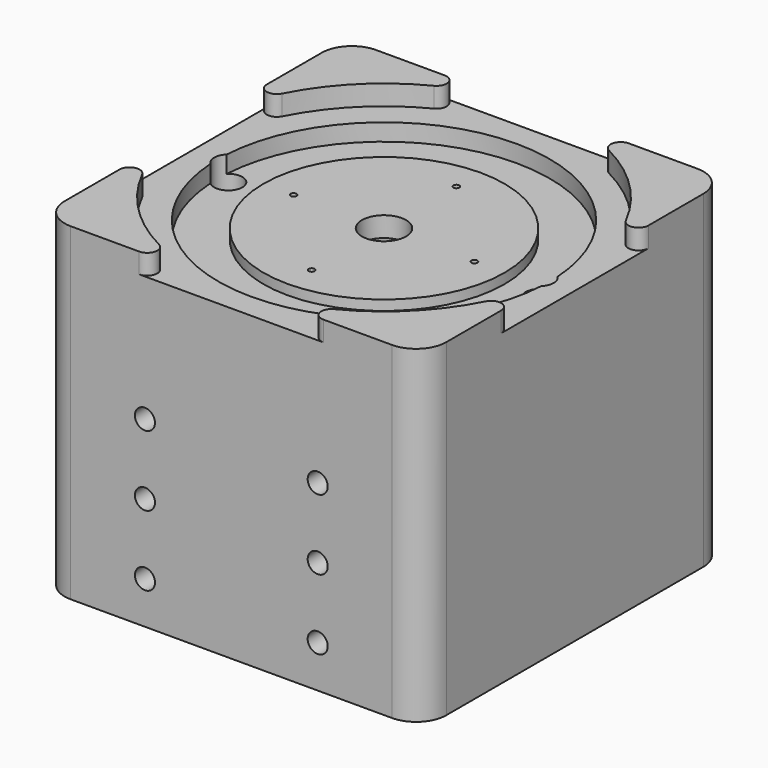
from build123d import *

# Parameters (mm, degrees)
SKETCH_W             = 190
SKETCH_H             = 190
PAD_DEPTH            = 165
SKETCH001_R          = 82.5
POCKET_DEPTH         = 20
SKETCH002_R          = 60
PAD001_DEPTH         = 5
FILLET_R             = 15
SKETCH003_W          = 100
SKETCH003_H          = 30
POCKET001_DEPTH      = 160
SKETCH004_W          = 120
SKETCH004_H          = 135
POCKET002_DEPTH      = 50
SKETCH005_R          = 1.5
POCKET003_DEPTH      = 10
SKETCH006_R          = 4
POCKET004_DEPTH      = 5
SKETCH007_R          = 11
POCKET005_DEPTH      = 10
SKETCH008_W          = 140
SKETCH008_H          = 135
POCKET006_DEPTH      = 5
SKETCH009_W          = 30
SKETCH009_H          = 135
POCKET007_DEPTH      = 10
SKETCH010_W          = 30
SKETCH010_H          = 135
POCKET008_DEPTH      = 10
SKETCH011_W          = 304.305817
SKETCH011_H          = 239.475426
POCKET009_DEPTH      = 1.5
SKETCH012_R          = 96
SKETCH012_R_2        = 75
POCKET010_DEPTH      = 10
FILLET001_R          = 5
SKETCH013_R          = 2
POCKET011_DEPTH      = 10
SKETCH014_W          = 5.1
SKETCH014_H          = 9.5
POCKET012_DEPTH      = 10
SKETCH015_R          = 2
POCKET013_DEPTH      = 30.001
SKETCH016_R          = 5
POCKET014_DEPTH      = 20
SKETCH017_W          = 120
SKETCH017_H          = 30
POCKET015_DEPTH      = 110
SKETCH018_R          = 1.5
POCKET016_DEPTH      = 20
POCKET016_DEPTH_BACK = -90
SKETCH019_R          = 2
POCKET017_DEPTH      = 153.501
SKETCH020_R          = 7
POCKET018_DEPTH      = 75
SKETCH021_R          = 7
POCKET019_DEPTH      = 65
SKETCH022_W          = 10
SKETCH022_H          = 30
POCKET020_DEPTH      = 110
SKETCH023_W          = 5.1
SKETCH023_H          = 9.5
POCKET021_DEPTH      = 10
SKETCH024_R          = 1.75
POCKET022_DEPTH      = 92


with BuildPart() as part:
    # Sketch → Pad (new body)
    with BuildSketch(Plane.XY):
        Rectangle(SKETCH_W, SKETCH_H)
    extrude(amount=PAD_DEPTH)

    # Sketch001 (on Face6 of Pad) → Pocket (cut)
    with BuildSketch(Plane.XY.offset(165)):
        Circle(SKETCH001_R)
    extrude(amount=-POCKET_DEPTH, mode=Mode.SUBTRACT)

    # Sketch002 (on Face8 of Pocket) → Pad001 (join)
    with BuildSketch(Plane.XY.offset(145)):
        Circle(SKETCH002_R)
    extrude(amount=PAD001_DEPTH)

    # Fillet
    fillet_edges = [part.edges().sort_by_distance(p)[0] for p in [
        (95, -95, 82.5),
        (-95, -95, 82.5),
        (95, 95, 82.5),
        (-95, 95, 82.5),
    ]]
    fillet(fillet_edges, radius=FILLET_R)

    # Sketch003 (on Face6 of Fillet) → Pocket001 (cut)
    with BuildSketch(Plane(origin=(0, 95, 0), x_dir=(-1, 0, 0), z_dir=(0, 1, 0))):
        with Locations((0, 20)):
            Rectangle(SKETCH003_W, SKETCH003_H)
        with Locations((0, 55)):
            Rectangle(SKETCH003_W, SKETCH003_H)
        with Locations((0, 90)):
            Rectangle(SKETCH003_W, SKETCH003_H)
        with Locations((0, 125)):
            Rectangle(SKETCH003_W, SKETCH003_H)
    extrude(amount=-POCKET001_DEPTH, mode=Mode.SUBTRACT)

    # Sketch004 (on Face6 of Pocket001) → Pocket002 (cut)
    with BuildSketch(Plane(origin=(0, 95, 0), x_dir=(-1, 0, 0), z_dir=(0, 1, 0))):
        with Locations((0, 72.5)):
            Rectangle(SKETCH004_W, SKETCH004_H)
    extrude(amount=-POCKET002_DEPTH, mode=Mode.SUBTRACT)

    # Sketch005 (on Face41 of Pocket002) → Pocket003 (cut)
    with BuildSketch(Plane.XY.offset(150)):
        with Locations((0, 45)):
            Circle(SKETCH005_R)
        with Locations((45, 0)):
            Circle(SKETCH005_R)
        with Locations((0, -45)):
            Circle(SKETCH005_R)
        with Locations((-45, 0)):
            Circle(SKETCH005_R)
    extrude(amount=-POCKET003_DEPTH, mode=Mode.SUBTRACT)

    # Sketch006 (on Face21 of Pocket003) → Pocket004 (cut)
    with BuildSketch(Plane(origin=(0, 0, 140), x_dir=(1, 0, 0), z_dir=(0, 0, -1))):
        with Locations((-45, 0)):
            Circle(SKETCH006_R)
        with Locations((0, -45)):
            Circle(SKETCH006_R)
        with Locations((45, 0)):
            Circle(SKETCH006_R)
        with Locations((0, 45)):
            Circle(SKETCH006_R)
    extrude(amount=-POCKET004_DEPTH, mode=Mode.SUBTRACT)

    # Sketch007 (on Face46 of Pocket004) → Pocket005 (cut)
    with BuildSketch(Plane.XY.offset(150)):
        Circle(SKETCH007_R)
    extrude(amount=-POCKET005_DEPTH, mode=Mode.SUBTRACT)

    # Sketch008 (on Face6 of Pocket005) → Pocket006 (cut)
    with BuildSketch(Plane(origin=(0, 95, 0), x_dir=(-1, 0, 0), z_dir=(0, 1, 0))):
        with Locations((0, 72.5)):
            Rectangle(SKETCH008_W, SKETCH008_H)
    extrude(amount=-POCKET006_DEPTH, mode=Mode.SUBTRACT)

    # Sketch009 (on Face39 of Pocket006) → Pocket007 (cut)
    with BuildSketch(Plane(origin=(60, 0, 0), x_dir=(0, -1, 0), z_dir=(-1, 0, 0))):
        with Locations((-65, 72.5)):
            Rectangle(SKETCH009_W, SKETCH009_H)
    extrude(amount=-POCKET007_DEPTH, mode=Mode.SUBTRACT)

    # Sketch010 (on Face36 of Pocket007) → Pocket008 (cut)
    with BuildSketch(Plane.YZ.offset(-60)):
        with Locations((65, 72.5)):
            Rectangle(SKETCH010_W, SKETCH010_H)
    extrude(amount=-POCKET008_DEPTH, mode=Mode.SUBTRACT)

    # Sketch011 (on Face5 of Pocket008) → Pocket009 (cut)
    with BuildSketch(Plane.XY.offset(165)):
        with Locations((9.721146, 11.953617)):
            Rectangle(SKETCH011_W, SKETCH011_H)
    extrude(amount=-POCKET009_DEPTH, mode=Mode.SUBTRACT)

    # Sketch012 (on Face4 of Pocket009) → Pocket010 (cut)
    with BuildSketch(Plane.XY.offset(163.5)):
        Circle(SKETCH012_R)
        Circle(SKETCH012_R_2, mode=Mode.SUBTRACT)
    extrude(amount=-POCKET010_DEPTH, mode=Mode.SUBTRACT)

    # Fillet001
    fillet001_edges = [part.edges().sort_by_distance(p)[0] for p in [
        (-95, -13.820275, 158.5),
        (-95, 13.820275, 158.5),
        (13.820275, -95, 158.5),
        (-13.820275, -95, 158.5),
        (95, -13.820275, 158.5),
        (95, 13.820275, 158.5),
        (-13.820275, 95, 158.5),
        (13.820275, 95, 158.5),
    ]]
    fillet(fillet001_edges, radius=FILLET001_R)

    # Sketch013 (on Face44 of Fillet001) → Pocket011 (cut)
    with BuildSketch(Plane(origin=(0, 90, 0), x_dir=(-1, 0, 0), z_dir=(0, 1, 0))):
        with Locations((65, 125)):
            Circle(SKETCH013_R)
        with Locations((65, 20)):
            Circle(SKETCH013_R)
        with Locations((-65, 20)):
            Circle(SKETCH013_R)
        with Locations((-65, 125)):
            Circle(SKETCH013_R)
    extrude(amount=-POCKET011_DEPTH, mode=Mode.SUBTRACT)

    # Sketch014 (on Face53 of Pocket011) → Pocket012 (cut)
    with BuildSketch(Plane(origin=(60, 0, 0), x_dir=(0, -1, 0), z_dir=(-1, 0, 0))):
        with Locations((-85, 125)):
            Rectangle(SKETCH014_W, SKETCH014_H)
        with Locations((-85, 20)):
            Rectangle(SKETCH014_W, SKETCH014_H)
    extrude(amount=-POCKET012_DEPTH, mode=Mode.SUBTRACT)

    # Sketch015 (on Face101 of Pocket012) → Pocket013 (cut, through all)
    with BuildSketch(Plane(origin=(0, -65, 0), x_dir=(-1, 0, 0), z_dir=(0, 1, 0))):
        with Locations((-43, 91)):
            Circle(SKETCH015_R)
        with Locations((43, 91)):
            Circle(SKETCH015_R)
        with Locations((-43, 56)):
            Circle(SKETCH015_R)
        with Locations((43, 56)):
            Circle(SKETCH015_R)
        with Locations((-43, 21)):
            Circle(SKETCH015_R)
        with Locations((43, 21)):
            Circle(SKETCH015_R)
    extrude(amount=-POCKET013_DEPTH, mode=Mode.SUBTRACT)

    # Sketch016 (on Face12 of Pocket013) → Pocket014 (cut)
    with BuildSketch(Plane.XZ.offset(95)):
        with Locations((-43, 91)):
            Circle(SKETCH016_R)
        with Locations((-43, 56)):
            Circle(SKETCH016_R)
        with Locations((-43, 21)):
            Circle(SKETCH016_R)
        with Locations((43, 21)):
            Circle(SKETCH016_R)
        with Locations((43, 56)):
            Circle(SKETCH016_R)
        with Locations((43, 91)):
            Circle(SKETCH016_R)
    extrude(amount=-POCKET014_DEPTH, mode=Mode.SUBTRACT)

    # Sketch017 (on Face70 of Pocket014) → Pocket015 (cut)
    with BuildSketch(Plane(origin=(0, 45, 0), x_dir=(-1, 0, 0), z_dir=(0, 1, 0))):
        with Locations((0, 125)):
            Rectangle(SKETCH017_W, SKETCH017_H)
    extrude(amount=-POCKET015_DEPTH, mode=Mode.SUBTRACT)

    # Sketch018 (on Face124 of Pocket015) → Pocket016 (cut, two sides)
    with BuildSketch(Plane(origin=(0, 0, 105), x_dir=(1, 0, 0), z_dir=(0, 0, -1))) as pocket016_sk:
        with Locations((-42.5, -17.5)):
            Circle(SKETCH018_R)
        with Locations((-42.5, 37.5)):
            Circle(SKETCH018_R)
        with Locations((42.5, -17.5)):
            Circle(SKETCH018_R)
        with Locations((42.5, 37.5)):
            Circle(SKETCH018_R)
    extrude(amount=-POCKET016_DEPTH, mode=Mode.SUBTRACT)
    extrude(pocket016_sk.sketch, amount=-POCKET016_DEPTH_BACK, mode=Mode.SUBTRACT)

    # Sketch019 (on Face5 of Pocket016) → Pocket017 (cut, through all)
    with BuildSketch(Plane.XY.offset(153.5)):
        with Locations((-77.5, 0)):
            Circle(SKETCH019_R)
        with Locations((77.5, 0)):
            Circle(SKETCH019_R)
    extrude(amount=-POCKET017_DEPTH, mode=Mode.SUBTRACT)

    # Sketch020 (on Face5 of Pocket017) → Pocket018 (cut)
    with BuildSketch(Plane.XY.offset(153.5)):
        with Locations((-77.5, 0)):
            Circle(SKETCH020_R)
        with Locations((77.5, 0)):
            Circle(SKETCH020_R)
    extrude(amount=-POCKET018_DEPTH, mode=Mode.SUBTRACT)

    # Sketch021 (on Face6 of Pocket018) → Pocket019 (cut)
    with BuildSketch(Plane(origin=(0, 0, 0), x_dir=(1, 0, 0), z_dir=(0, 0, -1))):
        with Locations((77.5, 0)):
            Circle(SKETCH021_R)
        with Locations((-77.5, 0)):
            Circle(SKETCH021_R)
    extrude(amount=-POCKET019_DEPTH, mode=Mode.SUBTRACT)

    # Sketch022 (on Face94 of Pocket019) → Pocket020 (cut)
    with BuildSketch(Plane(origin=(0, 45, 0), x_dir=(-1, 0, 0), z_dir=(0, 1, 0))):
        with Locations((-55, 90)):
            Rectangle(SKETCH022_W, SKETCH022_H)
        with Locations((-55, 55)):
            Rectangle(SKETCH022_W, SKETCH022_H)
        with Locations((-55, 20)):
            Rectangle(SKETCH022_W, SKETCH022_H)
        with Locations((55, 20)):
            Rectangle(SKETCH022_W, SKETCH022_H)
        with Locations((55, 55)):
            Rectangle(SKETCH022_W, SKETCH022_H)
        with Locations((55, 90)):
            Rectangle(SKETCH022_W, SKETCH022_H)
    extrude(amount=-POCKET020_DEPTH, mode=Mode.SUBTRACT)

    # Sketch023 (on Face85 of Pocket020) → Pocket021 (cut)
    with BuildSketch(Plane.YZ.offset(-60)):
        with Locations((85, 20)):
            Rectangle(SKETCH023_W, SKETCH023_H)
        with Locations((85, 125)):
            Rectangle(SKETCH023_W, SKETCH023_H)
    extrude(amount=-POCKET021_DEPTH, mode=Mode.SUBTRACT)

    # Sketch024 (on Face158 of Pocket021) → Pocket022 (cut)
    with BuildSketch(Plane.XY.offset(110)):
        with Locations((55, 25)):
            Circle(SKETCH024_R)
        with Locations((55, -45)):
            Circle(SKETCH024_R)
        with Locations((-55, 25)):
            Circle(SKETCH024_R)
        with Locations((-55, -45)):
            Circle(SKETCH024_R)
    extrude(amount=-POCKET022_DEPTH, mode=Mode.SUBTRACT)


solid = part.part
